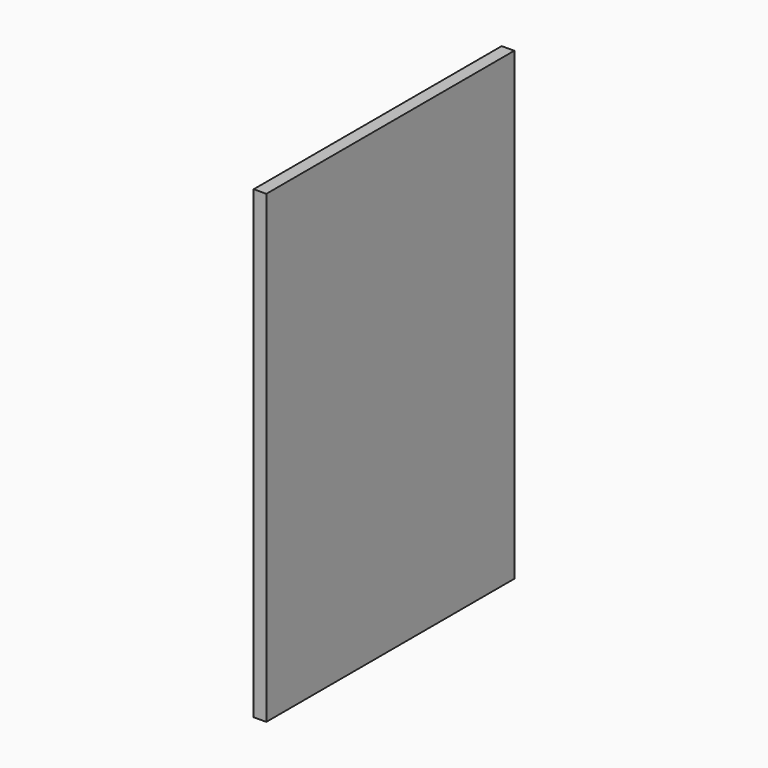
from build123d import *

# Parameters (mm, degrees)
F0_W      = 469.9
F0_H      = 1035.05
F1_DEPTH  = 19.05
F1_FACE_W = 19.05
F1_FACE_H = 469.9
F2_DEPTH  = 330.2


with BuildPart() as f1:
    # F0 (on Right) → F1 (new body)
    with BuildSketch(Plane.YZ):
        Rectangle(F0_W, F0_H)
    extrude(amount=F1_DEPTH)

    # F1_face (on face) → F2 (cut)
    with BuildSketch(Plane(origin=(9.525, 0, -517.525), x_dir=(1, 0, 0), z_dir=(0, 0, -1))):
        Rectangle(F1_FACE_W, F1_FACE_H)
    extrude(amount=-F2_DEPTH, mode=Mode.SUBTRACT)


solid = f1.part
